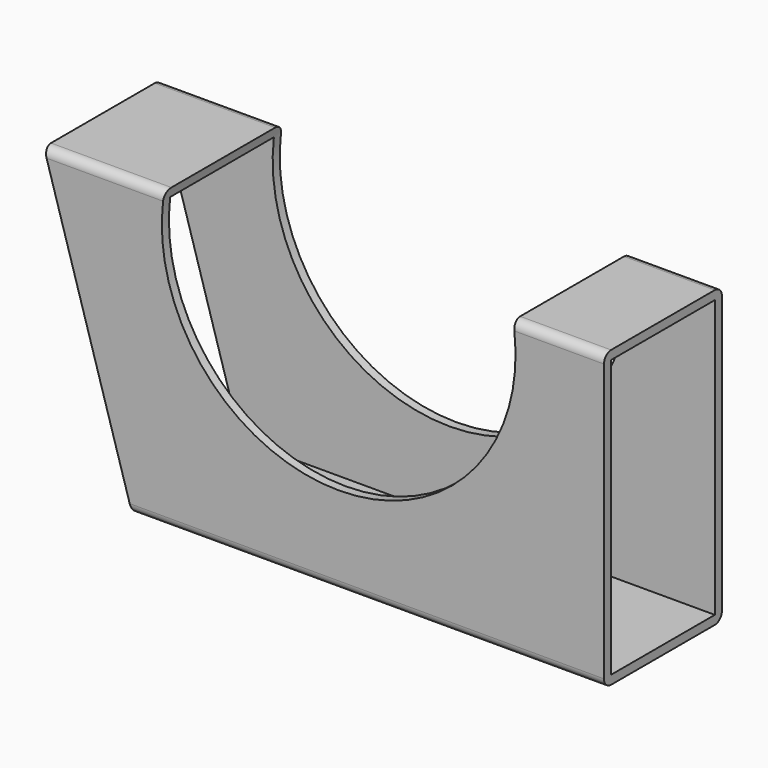
from build123d import *

# Parameters (mm, degrees)
F0_W          = 44
F0_H          = 94
F1_DEPTH      = 190
F3_DEPTH      = 25.001
F3_DEPTH_BACK = 25.001
F5_DEPTH      = 25.001
F5_DEPTH_BACK = 25.001


with BuildPart() as f1:
    # F0 (on Right) → F1 (new body)
    with BuildSketch(Plane.YZ):
        with BuildLine():
            Line((22, 50), (-22, 50))
            ThreePointArc((-22, 50), (-24.12132, 49.12132), (-25, 47))
            Line((-25, 47), (-25, -47))
            ThreePointArc((-25, -47), (-24.12132, -49.12132), (-22, -50))
            Line((-22, -50), (22, -50))
            ThreePointArc((22, -50), (24.12132, -49.12132), (25, -47))
            Line((25, -47), (25, 47))
            ThreePointArc((25, 47), (24.12132, 49.12132), (22, 50))
        make_face()
        Rectangle(F0_W, F0_H, mode=Mode.SUBTRACT)
    extrude(amount=F1_DEPTH)

    # F2 (on Front) → F3 (cut, two sides)
    with BuildSketch(Plane.XZ) as f3_sk:
        Polygon((30, -50), (0, 50), (0, -50), align=None)
    extrude(amount=F3_DEPTH, mode=Mode.SUBTRACT)
    extrude(f3_sk.sketch, amount=-F3_DEPTH_BACK, mode=Mode.SUBTRACT)

    # F4 (on Front) → F5 (cut, two sides)
    with BuildSketch(Plane.XZ) as f5_sk:
        with BuildLine():
            Line((159.160798, 50), (40.839202, 50))
            ThreePointArc((40.839202, 50), (100, -20), (159.160798, 50))
        make_face()
    extrude(amount=F5_DEPTH, mode=Mode.SUBTRACT)
    extrude(f5_sk.sketch, amount=-F5_DEPTH_BACK, mode=Mode.SUBTRACT)


solid = f1.part
